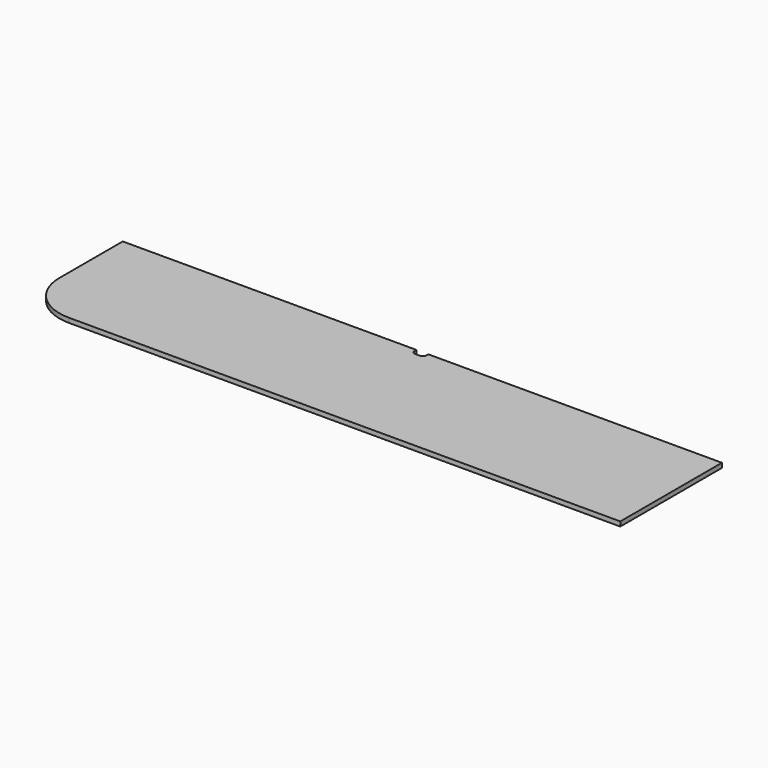
from build123d import *

# Parameters (mm, degrees)
F1_DEPTH = 19


with BuildPart() as f1:
    # F0 (on Top) → F1 (new body)
    with BuildSketch(Plane.XY):
        with BuildLine():
            Line((-25, 265), (-1250, 265))
            Line((-1250, 265), (-1250, -65))
            ThreePointArc((-1250, -65), (-1191.421356, -206.421356), (-1050, -265))
            Line((-1050, -265), (1250, -265))
            Line((1250, -265), (1250, 265))
            Line((1250, 265), (25, 265))
            Line((25, 265), (25, 255))
            ThreePointArc((25, 255), (20.606602, 244.393398), (10, 240))
            Line((10, 240), (-10, 240))
            ThreePointArc((-10, 240), (-20.606602, 244.393398), (-25, 255))
            Line((-25, 255), (-25, 265))
        make_face()
    extrude(amount=F1_DEPTH)


solid = f1.part
